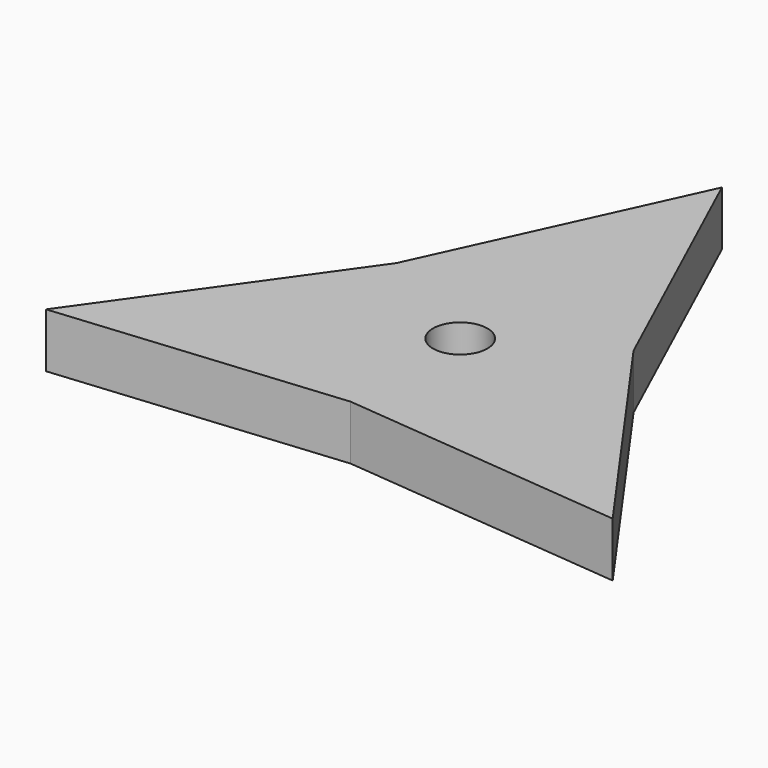
from build123d import *

# Parameters (mm, degrees)
F1_DEPTH = 2
F2_R     = 1
F3_DEPTH = 2.001


with BuildPart() as f1:
    # F0 (on Top) → F1 (new body)
    with BuildSketch(Plane.XY):
        with BuildLine():
            ThreePointArc((4.5452967144, 2.0833333333), (4.8850017181, 1.066188639), (5, 0))
            ThreePointArc((5, 0), (3.6974412659, -3.3658473057), (0.468428766, -4.9780090891))
            Line((0.468428766, -4.9780090891), (0, -5.0220880582))
            Line((0, -5.0220880582), (10.3923048454, -6))
            Line((10.3923048454, -6), (4.3492558384, 2.5110440291))
            Line((4.3492558384, 2.5110440291), (4.5452967144, 2.0833333333))
        make_face()
        with BuildLine():
            ThreePointArc((4.0768679484, 2.8946757558), (4.3301270189, 2.5), (4.5452967144, 2.0833333333))
            Line((4.5452967144, 2.0833333333), (4.3492558384, 2.5110440291))
            Line((4.3492558384, 2.5110440291), (4.0768679484, 2.8946757558))
        make_face()
        with BuildLine():
            Line((0, -5.0220880582), (0.468428766, -4.9780090891))
            ThreePointArc((0.468428766, -4.9780090891), (0, -5), (-0.468428766, -4.9780090891))
            Line((-0.468428766, -4.9780090891), (0, -5.0220880582))
        make_face()
        with BuildLine():
            ThreePointArc((-4.0768679484, 2.8946757558), (0, 5), (4.0768679484, 2.8946757558))
            Line((4.0768679484, 2.8946757558), (4.3492558384, 2.5110440291))
            Line((4.3492558384, 2.5110440291), (0, 12))
            Line((0, 12), (-4.3492558384, 2.5110440291))
            Line((-4.3492558384, 2.5110440291), (-4.0768679484, 2.8946757558))
        make_face()
        with BuildLine():
            Line((0, -5.0220880582), (-0.468428766, -4.9780090891))
            ThreePointArc((-0.468428766, -4.9780090891), (-4.3301270189, -2.5), (-4.5452967144, 2.0833333333))
            Line((-4.5452967144, 2.0833333333), (-4.3492558384, 2.5110440291))
            Line((-4.3492558384, 2.5110440291), (-10.3923048454, -6))
            Line((-10.3923048454, -6), (0, -5.0220880582))
        make_face()
        with BuildLine():
            ThreePointArc((-4.5452967144, 2.0833333333), (-4.3301270189, 2.5), (-4.0768679484, 2.8946757558))
            Line((-4.0768679484, 2.8946757558), (-4.3492558384, 2.5110440291))
            Line((-4.3492558384, 2.5110440291), (-4.5452967144, 2.0833333333))
        make_face()
        with BuildLine():
            ThreePointArc((0.468428766, -4.9780090891), (3.6974412659, -3.3658473057), (5, 0))
            ThreePointArc((5, 0), (4.8850017181, 1.066188639), (4.5452967144, 2.0833333333))
            ThreePointArc((4.5452967144, 2.0833333333), (4.3301270189, 2.5), (4.0768679484, 2.8946757558))
            ThreePointArc((4.0768679484, 2.8946757558), (0, 5), (-4.0768679484, 2.8946757558))
            ThreePointArc((-4.0768679484, 2.8946757558), (-4.3301270189, 2.5), (-4.5452967144, 2.0833333333))
            ThreePointArc((-4.5452967144, 2.0833333333), (-4.3301270189, -2.5), (-0.468428766, -4.9780090891))
            ThreePointArc((-0.468428766, -4.9780090891), (0, -5), (0.468428766, -4.9780090891))
        make_face()
    extrude(amount=F1_DEPTH)

    # F2 (on face) → F3 (cut, through all)
    with BuildSketch(Plane.XY.offset(2)):
        Circle(F2_R)
    extrude(amount=-F3_DEPTH, mode=Mode.SUBTRACT)


solid = f1.part
